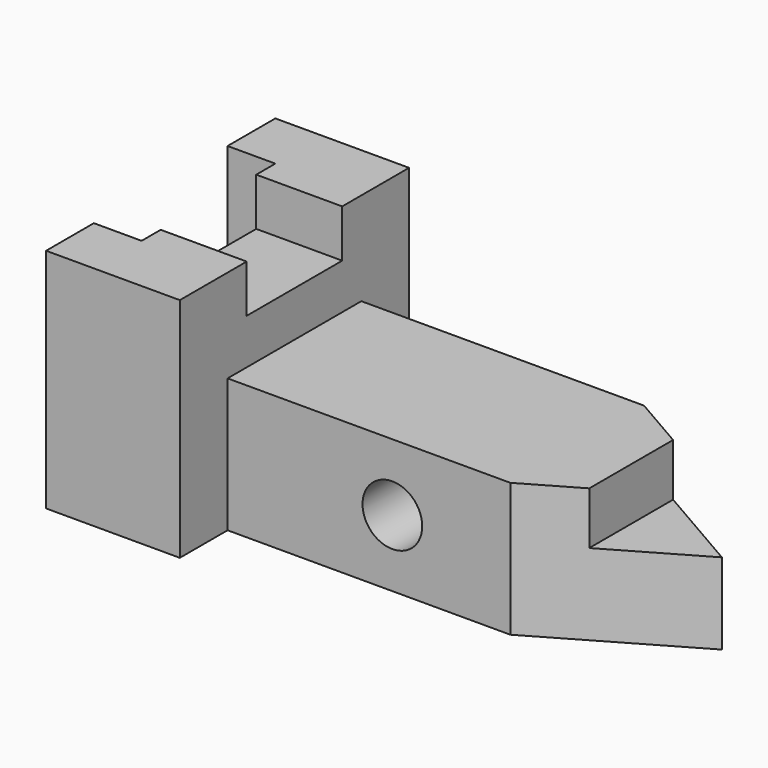
from build123d import *

# Parameters (mm, degrees)
F1_DEPTH = 48.26
F2_W     = 18.288
F2_H     = 25.4
F3_DEPTH = 10.16
F5_DEPTH = 28.448
F6_R     = 6.35
F6_W     = 51.748991
F6_H     = 25.627352
F7_DEPTH = 38.1


with BuildPart() as f1:
    # F0 (on Top) → F1 (new body)
    with BuildSketch(Plane.XY):
        Polygon((-4.737257, 31.069481), (-33.185257, 31.069481), (-33.185257, 18.369481), (-23.025257, 18.369481), (-23.025257, -17.190519), (-33.185257, -17.190519), (-33.185257, -29.890519), (-4.737257, -29.890519), align=None)
    extrude(amount=F1_DEPTH)

    # F2 (on face) → F3 (cut)
    with BuildSketch(Plane.XY.offset(48.26)):
        with Locations((-13.881257, 0.589481)):
            Rectangle(F2_W, F2_H)
    extrude(amount=-F3_DEPTH, mode=Mode.SUBTRACT)

    # F4 (on Top) → F5 (join)
    with BuildSketch(Plane.XY):
        Polygon((-4.737257, 18.369481), (-4.737257, -17.190519), (55.39888, -17.190519), (86.194743, 0.589481), (55.39888, 18.369481), align=None)
    extrude(amount=F5_DEPTH)

    # F6 (on Front) → F7 (cut, symmetric)
    with BuildSketch(Plane.XZ):
        with Locations((30.314743, 14.224)):
            Circle(F6_R)
        with Locations((92.765238, 30.085676)):
            Rectangle(F6_W, F6_H)
    extrude(amount=F7_DEPTH, both=True, mode=Mode.SUBTRACT)


solid = f1.part
